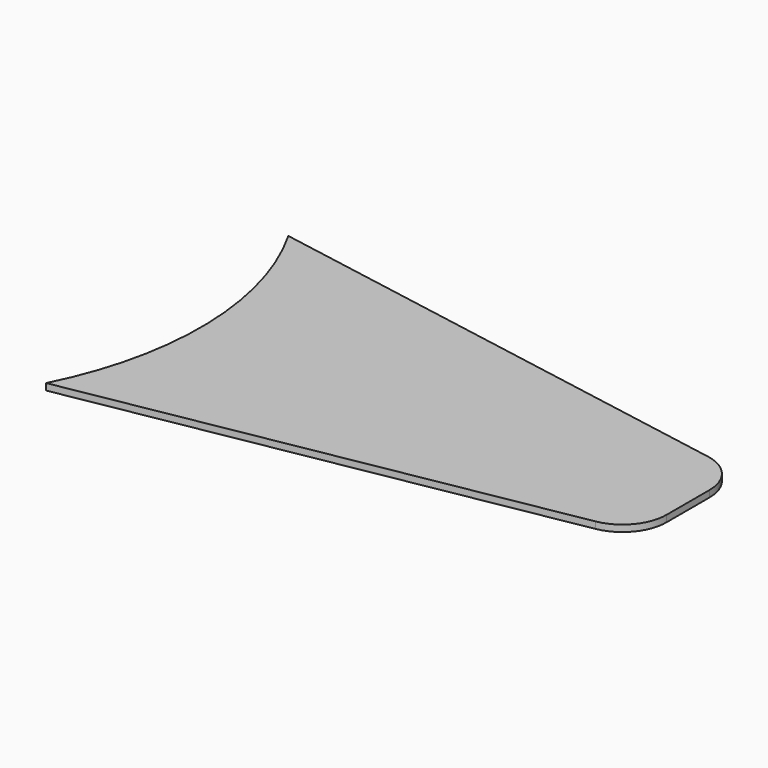
from build123d import *

# Parameters (mm, degrees)
F1_DEPTH = 0.381
F2_R     = 5.08


with BuildPart() as f1:
    # F0 (on Top) → F1 (new body, symmetric)
    with BuildSketch(Plane.XY):
        with BuildLine():
            ThreePointArc((-85.774382, 5.924701), (-80.788385, -12.001386), (-84.882977, -30.151843))
            Line((-84.882977, -30.151843), (-25.131642, -19.558589))
            Line((-25.131642, -19.558589), (-25.131642, -4.826589))
            Line((-25.131642, -4.826589), (-85.774382, 5.924701))
        make_face()
    extrude(amount=F1_DEPTH, both=True)

    # F2
    f2_edges = [f1.edges().sort_by_distance(p)[0] for p in [
        (-25.131642, -19.558589, 0),
        (-25.131642, -4.826589, 0),
    ]]
    fillet(f2_edges, radius=F2_R)


solid = f1.part
